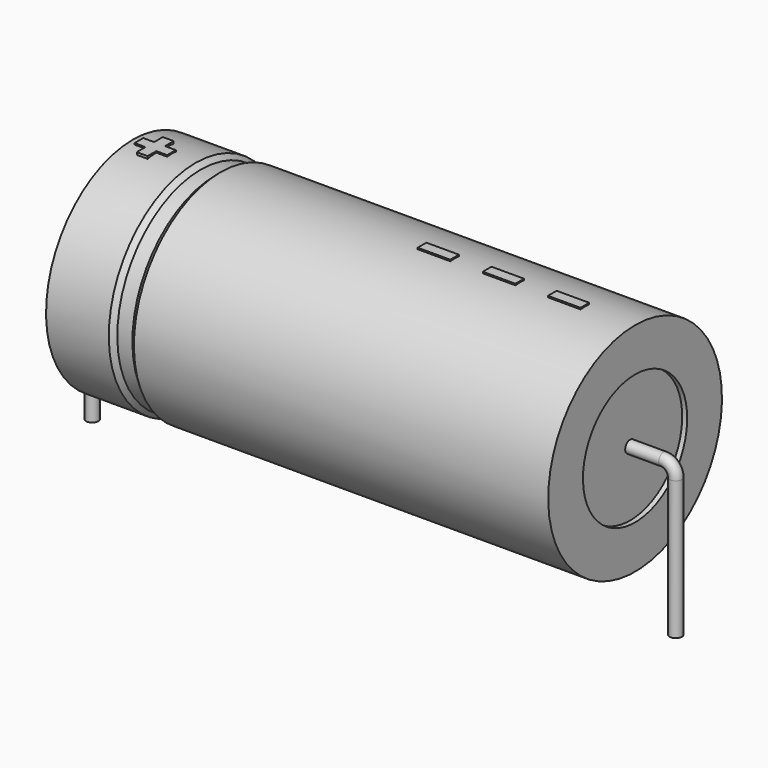
from build123d import *

# Parameters (mm, degrees)
SKETCH_R    = 0.45
SKETCH004_W = 2.4
SKETCH004_H = 0.8
PAD_DEPTH   = 8.08


with BuildPart() as sweep_body:
    # Sweep: sweep along a path in Sketch001
    with BuildLine(Plane.XZ) as sweep_path:
        Line((0, -3), (0, 7.2))
        ThreePointArc((0, 7.2), (0.263608, 7.8364), (0.900011, 8.1))
        Line((0.900011, 8.1), (42.1, 8.1))
        ThreePointArc((42.1, 8.1), (42.736396, 7.836396), (43, 7.2))
        Line((43, 7.2), (43, -3))
    # Sketch → Sweep (sweep)
    with BuildSketch(Plane.XY.offset(-2)):
        Circle(SKETCH_R)
    sweep(path=sweep_path.line)


with BuildPart() as revolution:
    # Sketch002 → Revolution (revolve)
    with BuildSketch(Plane.XZ):
        Polygon((3, 16.1), (3, 12.9), (40, 12.9), (40, 16.1), (9.475, 16.1), (9.105, 15.78), (7.995, 15.78), (7.625, 16.1), align=None)
    revolve(axis=Axis((6.97588, 0, 8.1), (1, 0, 0)))


with BuildPart() as revolution001:
    # Sketch003 → Revolution001 (revolve)
    with BuildSketch(Plane.XZ):
        Polygon((3.37, 15.78), (5.22, 15.78), (5.22, 8.9), (37.78, 8.9), (37.78, 15.78), (39.63, 15.78), (39.63, 8.1), (3.37, 8.1), align=None)
    revolve(axis=Axis((6.97588, 0, 8.1), (1, 0, 0)))


with BuildPart() as pad:
    # Sketch004 → Pad (new body)
    with BuildSketch(Plane.XY.offset(8.1)):
        with Locations((35.1, 0)):
            Rectangle(SKETCH004_W, SKETCH004_H)
        with Locations((30.3, 0)):
            Rectangle(SKETCH004_W, SKETCH004_H)
        with Locations((25.5, 0)):
            Rectangle(SKETCH004_W, SKETCH004_H)
        Polygon((4.244, 0.4), (3.444, 0.4), (3.444, -0.4), (4.244, -0.4), (4.244, -1.2), (5.044, -1.2), (5.044, -0.4), (5.844, -0.4), (5.844, 0.4), (5.044, 0.4), (5.044, 1.2), (4.244, 1.2), align=None)
    extrude(amount=PAD_DEPTH)


solid = Compound([sweep_body.part, revolution.part, revolution001.part, pad.part])
